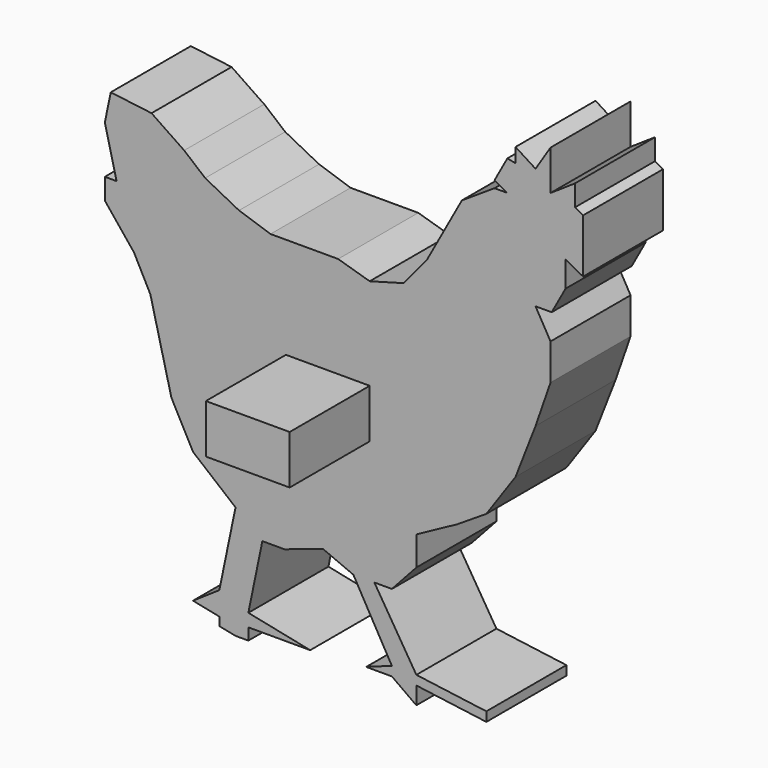
from build123d import *

# Parameters (mm, degrees)
F1_DEPTH = 12.7
F3_DEPTH = 12.7


with BuildPart() as f1:
    # F0 (on Front) → F1 (new body)
    with BuildSketch(Plane.XZ):
        Polygon((-132.122228, 16.423219), (-136.268499, 19.23676), (-141.444077, 19.888857), (-142.191744, 16.275135), (-140.710932, 10.20381), (-142.191744, 10.20381), (-142.191744, 7.53835), (-138.489716, 2.947835), (-136.416581, -1.050355), (-135.083851, -6.381276), (-133.751121, -11.712196), (-131.002761, -16.895032), (-125.606658, -21.342391), (-127.658351, -31.258902), (-131.002761, -33.523681), (-127.658351, -34.215628), (-127.658351, -35.276845), (-125.606658, -35.701333), (-123.977768, -35.701333), (-123.977768, -34.215628), (-116.128455, -34.215628), (-123.977768, -32.591632), (-122.200793, -24.002923), (-119.387253, -24.002923), (-114.500573, -22.374033), (-110.650467, -24.002923), (-105.763788, -32.591632), (-109.021573, -33.776282), (-105.763788, -33.776282), (-102.654087, -35.997501), (-102.654087, -33.776282), (-93.769217, -34.960932), (-93.769217, -33.776282), (-102.654087, -32.591632), (-107.985007, -24.002923), (-105.763788, -24.002923), (-102.654087, -20.597062), (-102.654087, -16.895032), (-97.471247, -14.081492), (-93.769217, -11.712196), (-90.067188, -6.381276), (-87.526385, 0.134294), (-85.624757, 5.613295), (-85.624757, 10.20381), (-87.526385, 13.511928), (-85.476677, 13.511928), (-83.717752, 16.71938), (-83.717752, 20.013939), (-81.490453, 18.792517), (-81.490453, 20.865652), (-81.490453, 25.634693), (-82.515056, 26.196572), (-82.515056, 28.875516), (-85.624757, 26.788895), (-85.624757, 31.866502), (-87.526385, 28.875516), (-90.067188, 30.490923), (-90.067188, 28.661053), (-91.103757, 28.875516), (-92.732648, 25.905185), (-91.103757, 25.011923), (-92.732648, 25.011923), (-96.882714, 22.295997), (-98.803977, 18.792517), (-101.321357, 14.202), (-104.282978, 10.648054), (-108.577332, 9.463405), (-112.575522, 10.648054), (-117.462198, 10.648054), (-121.164224, 10.648054), (-125.162414, 11.980785), (-129.456768, 14.202), align=None)
    extrude(amount=F1_DEPTH)

    # F2 (on face) → F3 (join)
    with BuildSketch(Plane.XZ.offset(12.7)):
        Polygon((-108.573183, -8.422106), (-108.573183, -4.432687), (-108.573183, -2.216344), (-119.211629, -2.216344), (-119.211629, -4.432687), (-119.211629, -8.422106), align=None)
    extrude(amount=F3_DEPTH)


solid = f1.part
